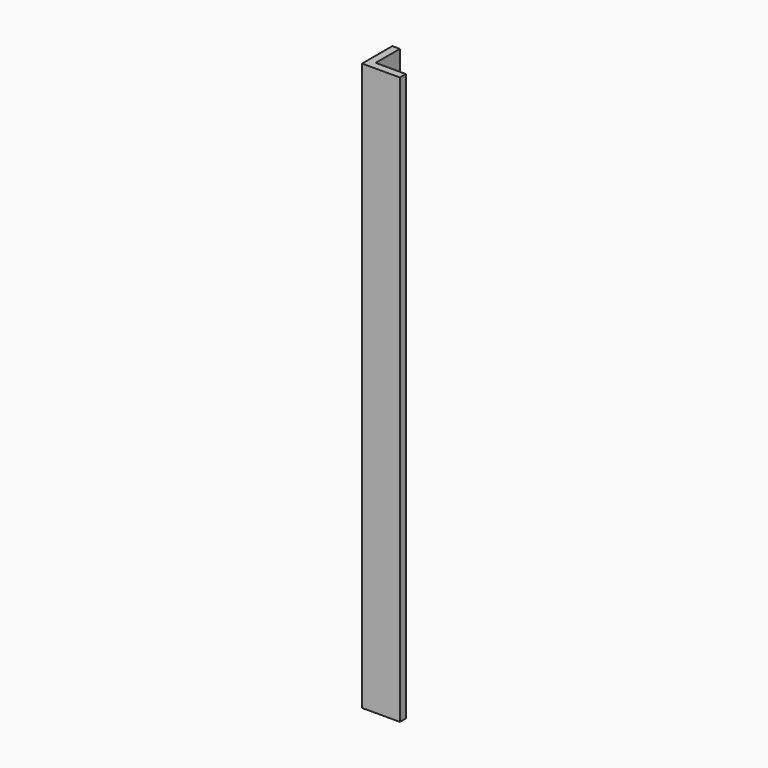
from build123d import *

# Parameters (mm, degrees)
EXTRUDE_DEPTH = 750


with BuildPart() as part:
    # Wire → Extrude (new body)
    with BuildSketch(Plane.XY):
        Polygon((0, 0), (50, 0), (50, 10), (10, 10), (10, 50), (0, 50), align=None)
    extrude(amount=EXTRUDE_DEPTH)


solid = part.part
